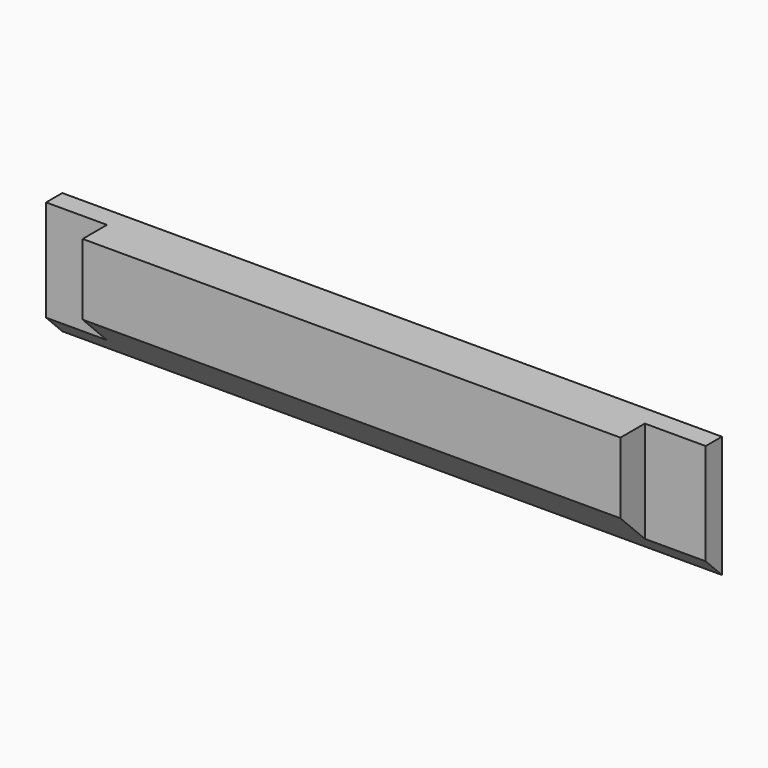
from build123d import *

# Parameters (mm, degrees)
F0_W     = 65
F0_H     = 12
F1_DEPTH = 5
F3_DEPTH = 65.001
F4_W     = 6
F4_H     = 12
F5_DEPTH = 3


with BuildPart() as f1:
    # F0 (on Front) → F1 (new body)
    with BuildSketch(Plane.XZ):
        Rectangle(F0_W, F0_H)
    extrude(amount=-F1_DEPTH)

    # F2 (on face) → F3 (cut, through all)
    with BuildSketch(Plane(origin=(-32.5, 0, 0), x_dir=(0, -1, 0), z_dir=(-1, 0, 0))):
        Polygon((0, -6), (0, -1), (-5, -6), align=None)
    extrude(amount=-F3_DEPTH, mode=Mode.SUBTRACT)

    # F4 (on face) → F5 (cut)
    with BuildSketch(Plane.XZ):
        with Locations((29.5, 0)):
            Rectangle(F4_W, F4_H)
        with Locations((-29.5, 0)):
            Rectangle(F4_W, F4_H)
    extrude(amount=-F5_DEPTH, mode=Mode.SUBTRACT)


solid = f1.part
